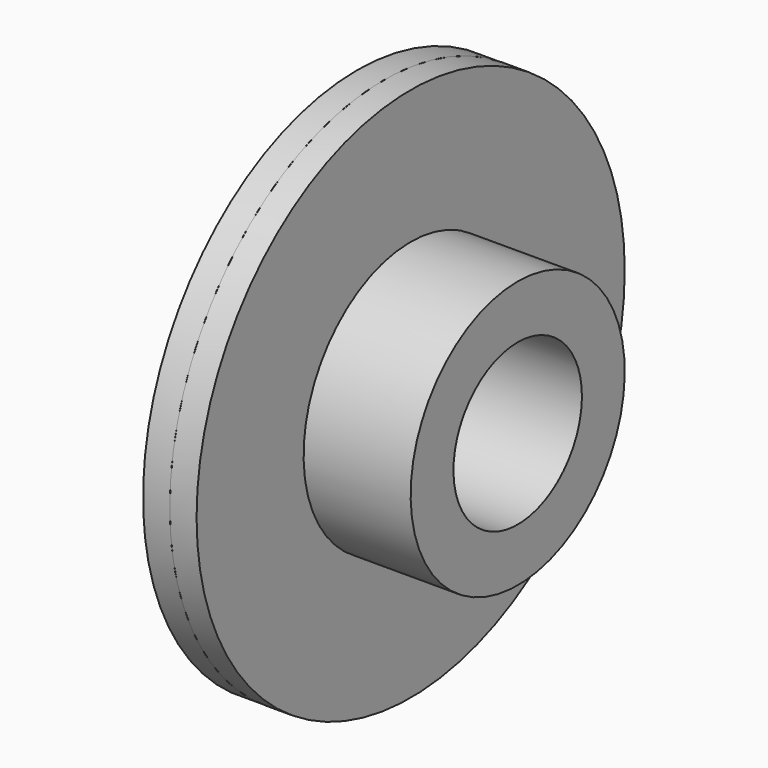
from build123d import *

# Parameters (mm, degrees)
F2_R     = 20
F2_R_2   = 10
F3_DEPTH = 2


with BuildPart() as f1:
    # F0 (on Front) → F1 (revolve)
    with BuildSketch(Plane.XZ):
        Polygon((0, 20), (0, 6), (12, 6), (12, 10), (2, 10), (2, 20), align=None)
    revolve(axis=Axis((256.9286823273, 0, 0), (1, 0, 0)))


with BuildPart() as f3:
    # F2 (on face) → F3 (new body)
    with BuildSketch(Plane.YZ.offset(2)):
        Circle(F2_R)
        Circle(F2_R_2, mode=Mode.SUBTRACT)
    extrude(amount=F3_DEPTH)


solid = Compound([f1.part, f3.part])
